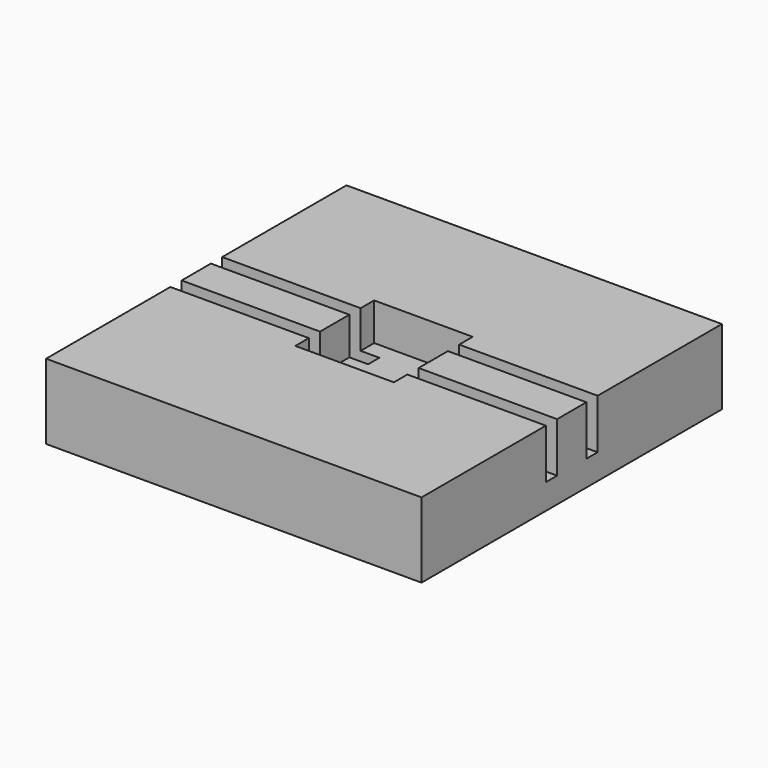
from build123d import *

# Parameters (mm, degrees)
F0_W     = 20
F0_H     = 20
F1_DEPTH = 4
F2_W     = 5.25
F2_H     = 5.25
F3_DEPTH = 2
F4_W     = 8.375
F4_H     = 0.75
F5_DEPTH = 2.65


with BuildPart() as f1:
    # F0 (on Top) → F1 (new body)
    with BuildSketch(Plane.XY):
        Rectangle(F0_W, F0_H)
    extrude(amount=F1_DEPTH)

    # F2 (on face) → F3 (cut)
    with BuildSketch(Plane.XY.offset(4)):
        Rectangle(F2_W, F2_H)
    extrude(amount=-F3_DEPTH, mode=Mode.SUBTRACT)

    # F4 (on face) → F5 (cut)
    with BuildSketch(Plane.XY.offset(4)):
        with Locations((-5.8125, 1.35)):
            Rectangle(F4_W, F4_H)
        with Locations((5.8125, 1.35)):
            Rectangle(F4_W, F4_H)
        with Locations((5.8125, -1.35)):
            Rectangle(F4_W, F4_H)
        with Locations((-5.8125, -1.35)):
            Rectangle(F4_W, F4_H)
    extrude(amount=-F5_DEPTH, mode=Mode.SUBTRACT)


solid = f1.part
